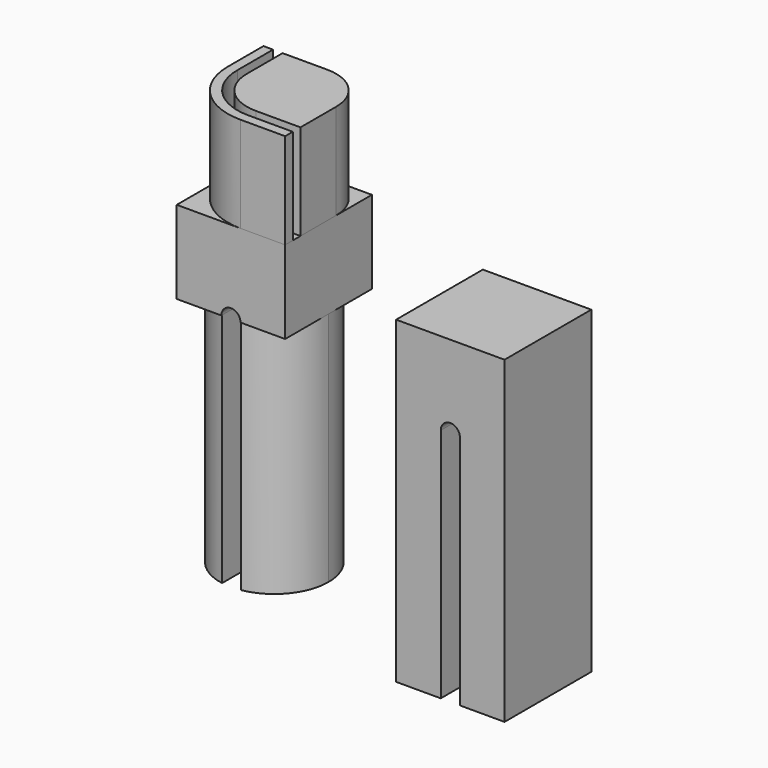
from build123d import *

# Parameters (mm, degrees)
F1_DEPTH  = 15
F3_DEPTH  = 17
F5_DEPTH  = 37
F7_DEPTH  = 37
F9_DEPTH  = 50
F11_DEPTH = 17
F13_DEPTH = 37
F15_DEPTH = 37
F17_DEPTH = 37
F19_DEPTH = 37


with BuildPart() as f1:
    # F0 (on Top) → F1 (new body)
    with BuildSketch(Plane.XY):
        with BuildLine():
            Line((0, -10), (7, -10))
            Line((7, -10), (7, -8.5))
            Line((7, -8.5), (0, -8.5))
            ThreePointArc((0, -8.5), (-6.0104076401, -6.0104076401), (-8.5, 0))
            Line((-8.5, 0), (-8.5, 7))
            Line((-8.5, 7), (-10, 7))
            Line((-10, 7), (-10, 0))
            ThreePointArc((-10, 0), (-7.0710678119, -7.0710678119), (0, -10))
        make_face()
    extrude(amount=F1_DEPTH)


with BuildPart() as f1b:
    # F0 (on Top) → F1, piece 2 (new body)
    with BuildSketch(Plane.XY):
        with BuildLine():
            Line((0, -7), (7, -7))
            Line((7, -7), (7, 0))
            ThreePointArc((7, 0), (4.9497474683, 4.9497474683), (0, 7))
            Line((0, 7), (-7, 7))
            Line((-7, 7), (-7, 0))
            ThreePointArc((-7, 0), (-4.9497474683, -4.9497474683), (0, -7))
        make_face()
    extrude(amount=F1_DEPTH)


with BuildPart() as f3:
    # F2 (on Front) → F3 (new body)
    with BuildSketch(Plane.XZ):
        with BuildLine():
            Line((47, 0), (30, 0))
            Line((30, 0), (30, -50))
            Line((30, -50), (37, -50))
            Line((37, -50), (37, -13))
            ThreePointArc((37, -13), (38.5, -11.5), (40, -13))
            Line((40, -13), (40, -50))
            Line((40, -50), (47, -50))
            Line((47, -50), (47, 0))
        make_face()
    extrude(amount=F3_DEPTH)

    # F4 (on face) → F5 (cut)
    with BuildSketch(Plane(origin=(0, 0, -50), x_dir=(1, 0, 0), z_dir=(0, 0, -1))):
        with BuildLine():
            ThreePointArc((37, 11.2129319933), (35.8297940154, 10.0748015748), (35.4, 8.5))
            Line((35.4, 8.5), (37, 8.5))
            Line((37, 8.5), (37, 11.2129319933))
        make_face()
        with BuildLine():
            Line((37, 8.5), (35.4, 8.5))
            ThreePointArc((35.4, 8.5), (35.8297940154, 6.9251984252), (37, 5.7870680067))
            Line((37, 5.7870680067), (37, 8.5))
        make_face()
    extrude(amount=-F5_DEPTH, mode=Mode.SUBTRACT)

    # F6 (on face) → F7 (cut)
    with BuildSketch(Plane(origin=(0, 0, -50), x_dir=(1, 0, 0), z_dir=(0, 0, -1))):
        with BuildLine():
            Line((40, 8.5), (41.55, 8.5))
            ThreePointArc((41.55, 8.5), (41.134150717, 10.0374491862), (40, 11.155654345))
            Line((40, 11.155654345), (40, 8.5))
        make_face()
        with BuildLine():
            ThreePointArc((40, 5.844345655), (41.134150717, 6.9625508138), (41.55, 8.5))
            Line((41.55, 8.5), (40, 8.5))
            Line((40, 8.5), (40, 5.844345655))
        make_face()
    extrude(amount=-F7_DEPTH, mode=Mode.SUBTRACT)


with BuildPart() as f9:
    # F8 (on face) → F9 (new body)
    with BuildSketch(Plane(origin=(0, 0, 0), x_dir=(1, 0, 0), z_dir=(0, 0, -1))):
        with BuildLine():
            Line((7, -7), (7, 8.5))
            Line((7, 8.5), (0, 8.5))
            ThreePointArc((0, 8.5), (-6.0104076401, 6.0104076401), (-8.5, 0))
            Line((-8.5, 0), (-8.5, -7))
            Line((-8.5, -7), (7, -7))
        make_face()
        with BuildLine():
            ThreePointArc((-10, 0), (-7.0710678119, 7.0710678119), (0, 10))
            Line((0, 10), (-10, 10))
            Line((-10, 10), (-10, 0))
        make_face()
        with BuildLine():
            Line((7, 8.5), (7, 10))
            Line((7, 10), (0, 10))
            ThreePointArc((0, 10), (-7.0710678119, 7.0710678119), (-10, 0))
            Line((-10, 0), (-10, -7))
            Line((-10, -7), (-8.5, -7))
            Line((-8.5, -7), (-8.5, 0))
            ThreePointArc((-8.5, 0), (-6.0104076401, 6.0104076401), (0, 8.5))
            Line((0, 8.5), (7, 8.5))
        make_face()
    extrude(amount=F9_DEPTH)

    # F10 (on face) → F11 (cut)
    with BuildSketch(Plane.XZ.offset(10)):
        with BuildLine():
            Line((-3, -13), (0, -13))
            ThreePointArc((0, -13), (-1.5, -11.5), (-3, -13))
        make_face()
        Polygon((-3, -50), (-1.5, -50), (0, -50), (0, -13), (-3, -13), align=None)
    extrude(amount=-F11_DEPTH, mode=Mode.SUBTRACT)

    # F12 (on face) → F13 (cut)
    with BuildSketch(Plane(origin=(0, 0, -50), x_dir=(1, 0, 0), z_dir=(0, 0, -1))):
        with BuildLine():
            ThreePointArc((-3, 4.155654345), (-4.134150717, 3.0374491862), (-4.55, 1.5))
            Line((-4.55, 1.5), (-3, 1.5))
            Line((-3, 1.5), (-3, 4.155654345))
        make_face()
        with BuildLine():
            Line((-3, 1.5), (-4.55, 1.5))
            ThreePointArc((-4.55, 1.5), (-4.134150717, -0.0374491862), (-3, -1.155654345))
            Line((-3, -1.155654345), (-3, 1.5))
        make_face()
    extrude(amount=-F13_DEPTH, mode=Mode.SUBTRACT)

    # F14 (on face) → F15 (cut)
    with BuildSketch(Plane(origin=(0, 0, -50), x_dir=(1, 0, 0), z_dir=(0, 0, -1))):
        with BuildLine():
            Line((0, 1.5), (1.55, 1.5))
            ThreePointArc((1.55, 1.5), (1.134150717, 3.0374491862), (0, 4.155654345))
            Line((0, 4.155654345), (0, 1.5))
        make_face()
        with BuildLine():
            ThreePointArc((0, -1.155654345), (1.134150717, -0.0374491862), (1.55, 1.5))
            Line((1.55, 1.5), (0, 1.5))
            Line((0, 1.5), (0, -1.155654345))
        make_face()
    extrude(amount=-F15_DEPTH, mode=Mode.SUBTRACT)

    # F16 (on face) → F17 (cut)
    with BuildSketch(Plane(origin=(0, 0, -50), x_dir=(1, 0, 0), z_dir=(0, 0, -1))):
        with BuildLine():
            Line((-10, 10), (-10, 1.5))
            ThreePointArc((-10, 1.5), (-8.0192024052, 6.9543560573), (-3, 9.8666002653))
            Line((-3, 9.8666002653), (-3, 10))
            Line((-3, 10), (-10, 10))
        make_face()
        with BuildLine():
            ThreePointArc((-3, -6.8666002653), (-8.0192024052, -3.9543560573), (-10, 1.5))
            Line((-10, 1.5), (-10, -7))
            Line((-10, -7), (-3, -7))
            Line((-3, -7), (-3, -6.8666002653))
        make_face()
    extrude(amount=-F17_DEPTH, mode=Mode.SUBTRACT)

    # F18 (on face) → F19 (cut)
    with BuildSketch(Plane(origin=(0, 0, -50), x_dir=(1, 0, 0), z_dir=(0, 0, -1))):
        with BuildLine():
            ThreePointArc((0, 9.8666002653), (5.0192024052, 6.9543560573), (7, 1.5))
            Line((7, 1.5), (7, 10))
            Line((7, 10), (0, 10))
            Line((0, 10), (0, 9.8666002653))
        make_face()
        with BuildLine():
            Line((7, -7), (7, 1.5))
            ThreePointArc((7, 1.5), (5.0192024052, -3.9543560573), (0, -6.8666002653))
            Line((0, -6.8666002653), (0, -7))
            Line((0, -7), (7, -7))
        make_face()
    extrude(amount=-F19_DEPTH, mode=Mode.SUBTRACT)


solid = Compound([f1.part, f1b.part, f3.part, f9.part])
